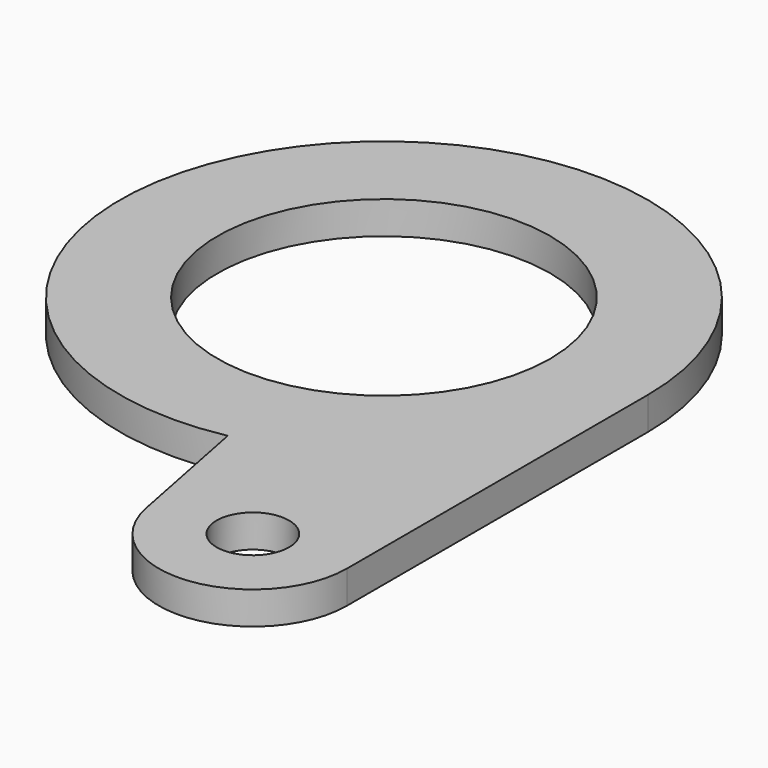
from build123d import *

# Parameters (mm, degrees)
F0_R     = 8.001
F0_R_2   = 1.744437
F1_DEPTH = 1.5748


with BuildPart() as f1:
    # F0 (on Top) → F1 (new body)
    with BuildSketch(Plane.XY):
        with BuildLine():
            ThreePointArc((2.452167, -12.461014), (9.808989, -8.06683), (12.7, 0))
            ThreePointArc((12.7, 0), (-9.808989, 8.06683), (2.452167, -12.461014))
        make_face()
        Circle(F0_R, mode=Mode.SUBTRACT)
        with BuildLine():
            Line((12.7, -18.100876), (12.7, 0))
            ThreePointArc((12.7, 0), (9.808989, -8.06683), (2.452167, -12.461014))
            Line((2.452167, -12.461014), (3.733975, -18.974695))
            ThreePointArc((3.733975, -18.974695), (8.613387, -22.605128), (12.7, -18.100876))
        make_face()
        with Locations((8.174407, -18.100876)):
            Circle(F0_R_2, mode=Mode.SUBTRACT)
    extrude(amount=F1_DEPTH)


solid = f1.part
